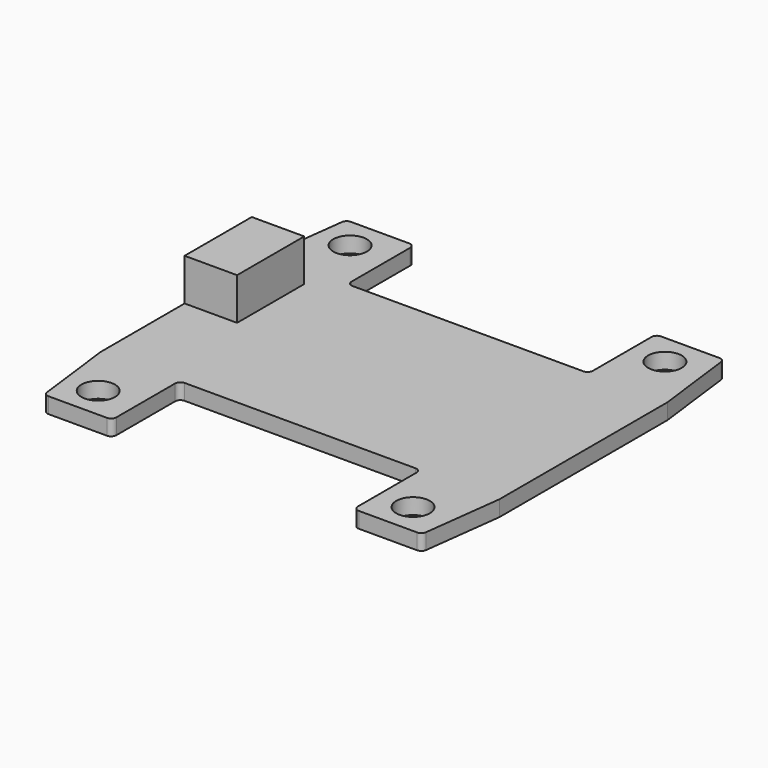
from build123d import *

# Parameters (mm, degrees)
F0_R     = 1.6
F1_DEPTH = 0.75
F2_W     = 5
F2_H     = 8
F3_DEPTH = 4
F4_W     = 7.2
F4_H     = 3.6
F5_DEPTH = 4.8


with BuildPart() as f1:
    # F0 (on Top) → F1 (new body, symmetric)
    with BuildSketch(Plane.XY):
        with BuildLine():
            Line((11, 10), (-11, 10))
            ThreePointArc((-11, 10), (-11.353553, 10.146447), (-11.5, 10.5))
            Line((-11.5, 10.5), (-11.5, 17.5))
            ThreePointArc((-11.5, 17.5), (-11.646447, 17.853553), (-12, 18))
            Line((-12, 18), (-17.558609, 18))
            ThreePointArc((-17.558609, 18), (-17.88951, 17.874839), (-18.054748, 17.562017))
            Line((-18.054748, 17.562017), (-19, 10))
            Line((-19, 10), (-19, 0))
            Line((-19, 0), (-19, -10))
            Line((-19, -10), (-18.054748, -17.562017))
            ThreePointArc((-18.054748, -17.562017), (-17.88951, -17.874839), (-17.558609, -18))
            Line((-17.558609, -18), (-12, -18))
            ThreePointArc((-12, -18), (-11.646447, -17.853553), (-11.5, -17.5))
            Line((-11.5, -17.5), (-11.5, -10.5))
            ThreePointArc((-11.5, -10.5), (-11.353553, -10.146447), (-11, -10))
            Line((-11, -10), (11, -10))
            ThreePointArc((11, -10), (11.353553, -10.146447), (11.5, -10.5))
            Line((11.5, -10.5), (11.5, -17.5))
            ThreePointArc((11.5, -17.5), (11.646447, -17.853553), (12, -18))
            Line((12, -18), (17.558609, -18))
            ThreePointArc((17.558609, -18), (17.88951, -17.874839), (18.054748, -17.562017))
            Line((18.054748, -17.562017), (19, -10))
            Line((19, -10), (19, 0))
            Line((19, 0), (19, 10))
            Line((19, 10), (18.054748, 17.562017))
            ThreePointArc((18.054748, 17.562017), (17.88951, 17.874839), (17.558609, 18))
            Line((17.558609, 18), (12, 18))
            ThreePointArc((12, 18), (11.646447, 17.853553), (11.5, 17.5))
            Line((11.5, 17.5), (11.5, 10.5))
            ThreePointArc((11.5, 10.5), (11.353553, 10.146447), (11, 10))
        make_face()
        with Locations((-15.232269, -15)):
            Circle(F0_R, mode=Mode.SUBTRACT)
        with Locations((14.767731, -15)):
            Circle(F0_R, mode=Mode.SUBTRACT)
        with Locations((-15.232269, 15)):
            Circle(F0_R, mode=Mode.SUBTRACT)
        with Locations((14.767731, 15)):
            Circle(F0_R, mode=Mode.SUBTRACT)
    extrude(amount=F1_DEPTH, both=True)

    # F2 (on face) → F3 (join)
    with BuildSketch(Plane.XY.offset(0.75)):
        with Locations((-16.5, 4)):
            Rectangle(F2_W, F2_H)
    extrude(amount=F3_DEPTH)

    # F4 (on face) → F5 (cut)
    with BuildSketch(Plane(origin=(-19, 0, 0), x_dir=(0, -1, 0), z_dir=(-1, 0, 0))):
        with Locations((-4, 2.75)):
            Rectangle(F4_W, F4_H)
    extrude(amount=-F5_DEPTH, mode=Mode.SUBTRACT)


solid = f1.part
